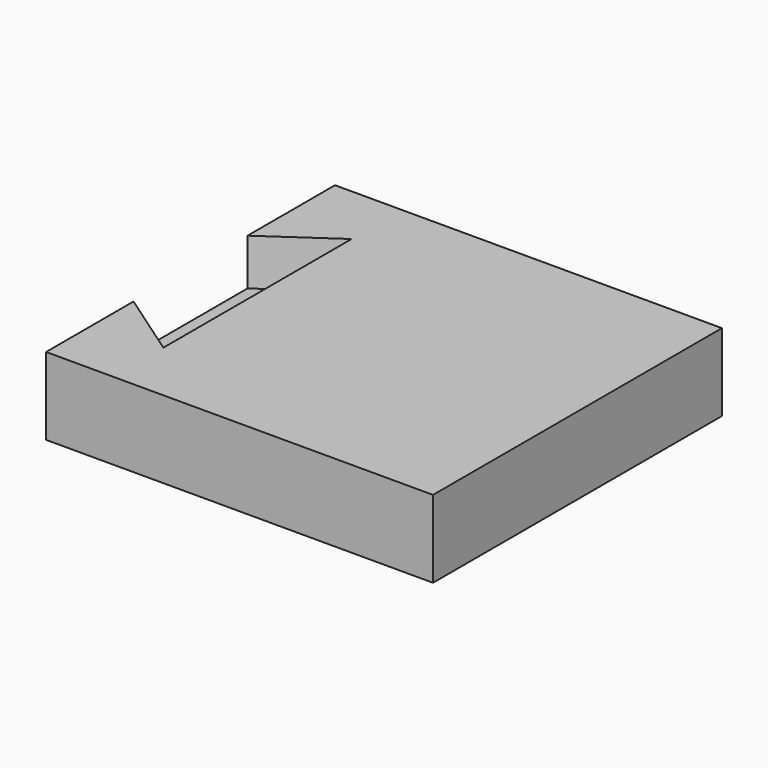
from build123d import *

# Parameters (mm, degrees)
F1_DEPTH = 15
F2_W     = 70
F2_H     = 6
F3_DEPTH = 75


with BuildPart() as f1:
    # F0 (on Top) → F1 (new body)
    with BuildSketch(Plane.XY):
        Polygon((76.8028618103, 32.5), (1.8028618103, 32.5), (1.8028618103, 11.3129554689), (14.7837150177, 20.2997004986), (14.7837150177, -2.5), (14.7837150177, -25.2997004986), (1.8028618103, -16.3129554689), (1.8028618103, -37.5), (76.8028618103, -37.5), align=None)
    extrude(amount=F1_DEPTH)

    # F2 (on face) → F3 (join, through all)
    with BuildSketch(Plane.YZ.offset(76.8028618103)):
        with Locations((-2.5, 3)):
            Rectangle(F2_W, F2_H)
    extrude(amount=-F3_DEPTH)


solid = f1.part
